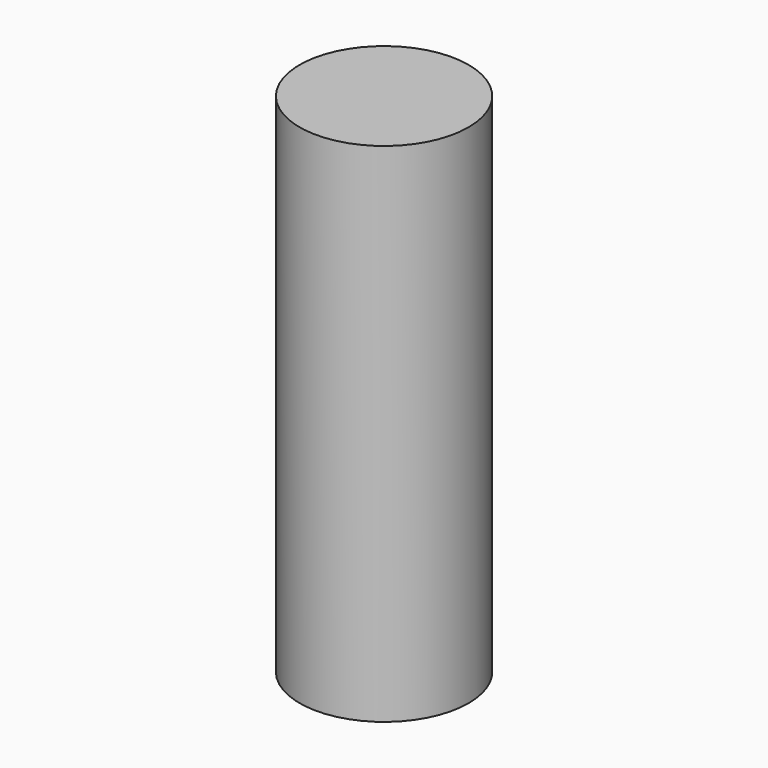
from build123d import *

# Parameters (mm, degrees)
SKETCH_R  = 5
PAD_DEPTH = 30


with BuildPart() as part:
    # Sketch → Pad (new body)
    with BuildSketch(Plane.XY):
        Circle(SKETCH_R)
    extrude(amount=PAD_DEPTH)


solid = part.part
